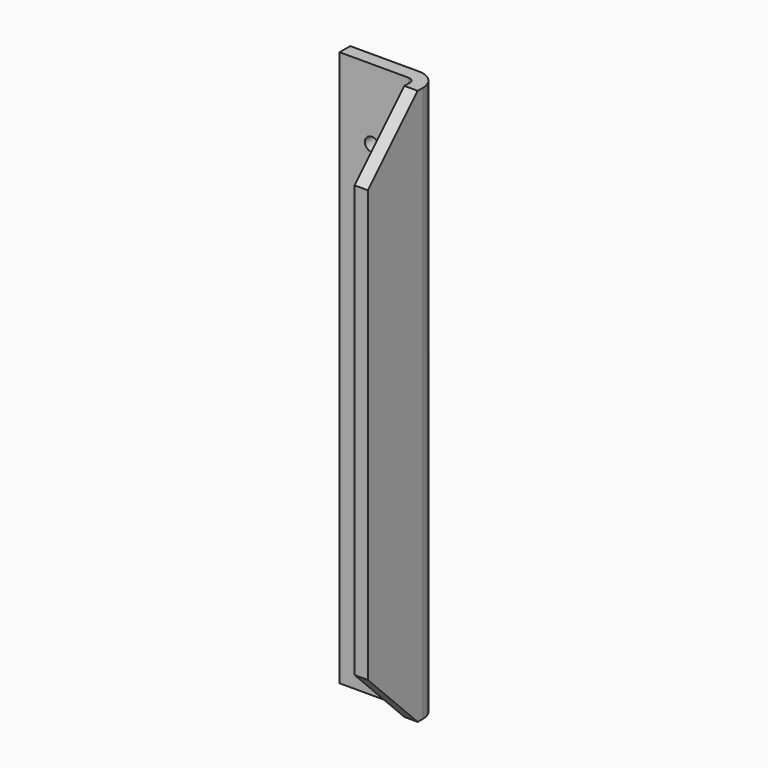
from build123d import *

# Parameters (mm, degrees)
F1_DEPTH = 199.5424
F2_SIZE  = 22.352
F3_R     = 2.4638
F4_DEPTH = 25.4


with BuildPart() as f1:
    # F0 (on Top) → F1 (new body)
    with BuildSketch(Plane.XY):
        with BuildLine():
            Line((0, -31.75), (0, -7.0612))
            ThreePointArc((0, -7.0612), (-2.068178, -2.068178), (-7.0612, 0))
            Line((-7.0612, 0), (-31.75, 0))
            Line((-31.75, 0), (-31.75, -4.7752))
            Line((-31.75, -4.7752), (-7.0612, -4.7752))
            ThreePointArc((-7.0612, -4.7752), (-5.444754, -5.444754), (-4.7752, -7.0612))
            Line((-4.7752, -7.0612), (-4.7752, -31.75))
            Line((-4.7752, -31.75), (0, -31.75))
        make_face()
    extrude(amount=F1_DEPTH)

    # F2
    f2_edges = [f1.edges().sort_by_distance(p)[0] for p in [
        (-2.3876, -31.75, 199.5424),
        (-2.3876, -31.75, 0),
    ]]
    chamfer(f2_edges, length=F2_SIZE)

    # F3 (on Front) → F4 (cut)
    with BuildSketch(Plane.XZ):
        with Locations((-20.193, 174.1424)):
            Circle(F3_R)
        with Locations((-20.193, 99.7712)):
            Circle(F3_R)
        with Locations((-20.193, 25.4)):
            Circle(F3_R)
        with Locations((-20.193, 147.3962)):
            Circle(F3_R)
        with Locations((-20.193, 52.1462)):
            Circle(F3_R)
    extrude(amount=F4_DEPTH, mode=Mode.SUBTRACT)


solid = f1.part
